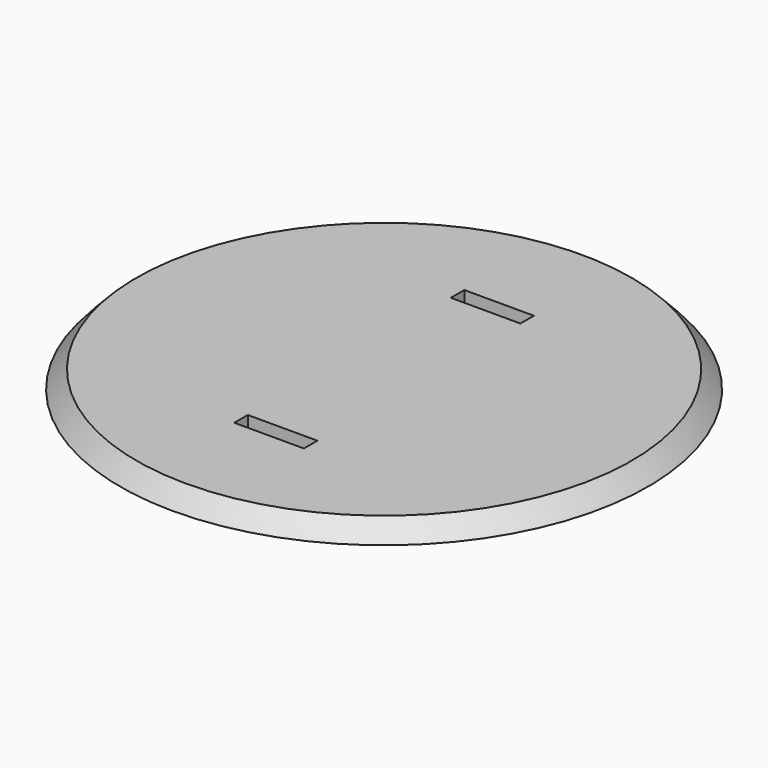
from build123d import *

# Parameters (mm, degrees)
SKETCH018_R         = 75.1
SKETCH018_W         = 4.8
SKETCH018_H         = 19.8
PAD018_DEPTH        = 5
CUT_PLACEMENT_ANGLE = 90


with BuildPart() as revolution:
    # Sketch019 → Revolution (revolve)
    with BuildSketch(Plane.XZ):
        with BuildLine():
            Line((-75.1, 0), (-75.1, 5))
            Line((-75.1, 5), (-70.462827, 5))
            ThreePointArc((-70.462827, 5), (-72.824338, 2.539809), (-75.1, 0))
        make_face()
    revolve(axis=Axis((0, 0, 0), (0, 0, 1)))


with BuildPart() as bowlsupport:
    # Sketch018 → Pad018 (new body)
    with BuildSketch(Plane.XY):
        Circle(SKETCH018_R)
        with Locations((-38.5, 0)):
            Rectangle(SKETCH018_W, SKETCH018_H, mode=Mode.SUBTRACT)
        with Locations((38.5, 0)):
            Rectangle(SKETCH018_W, SKETCH018_H, mode=Mode.SUBTRACT)
    extrude(amount=PAD018_DEPTH)

    # Cut: cut Revolution
    add(revolution.part, mode=Mode.SUBTRACT)


with BuildPart() as bowlsupport_1:
    # Cut placement: moved
    add(bowlsupport.part.moved(Location((0, 36, 160))).rotate(Axis((0, 36, 160), (0, 0, 1)), CUT_PLACEMENT_ANGLE))


solid = bowlsupport_1.part
